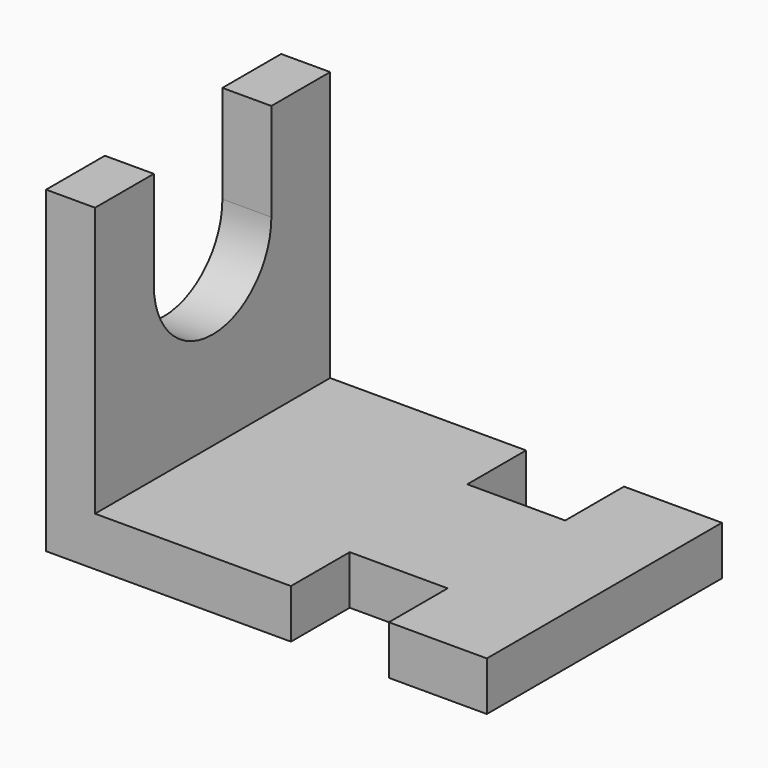
from build123d import *

# Parameters (mm, degrees)
F1_DEPTH = 60
F2_W     = 20
F2_H     = 15
F3_DEPTH = 25
F5_DEPTH = 25


with BuildPart() as f1:
    # F0 (on Front) → F1 (new body)
    with BuildSketch(Plane.XZ):
        Polygon((5, -22.5), (5, 32.5), (-5, 32.5), (-5, -32.5), (5, -32.5), (85, -32.5), (85, -22.5), align=None)
    extrude(amount=-F1_DEPTH)

    # F2 (on face) → F3 (cut)
    with BuildSketch(Plane.XY.offset(-22.5)):
        with Locations((55, 7.5)):
            Rectangle(F2_W, F2_H)
        with Locations((55, 52.5)):
            Rectangle(F2_W, F2_H)
    extrude(amount=-F3_DEPTH, mode=Mode.SUBTRACT)

    # F4 (on face) → F5 (cut)
    with BuildSketch(Plane.YZ.offset(5)):
        with BuildLine():
            Line((15, 32.5), (15, 12.5))
            ThreePointArc((15, 12.5), (30, -2.5), (45, 12.5))
            Line((45, 12.5), (45, 32.5))
            Line((45, 32.5), (15, 32.5))
        make_face()
    extrude(amount=-F5_DEPTH, mode=Mode.SUBTRACT)


solid = f1.part
